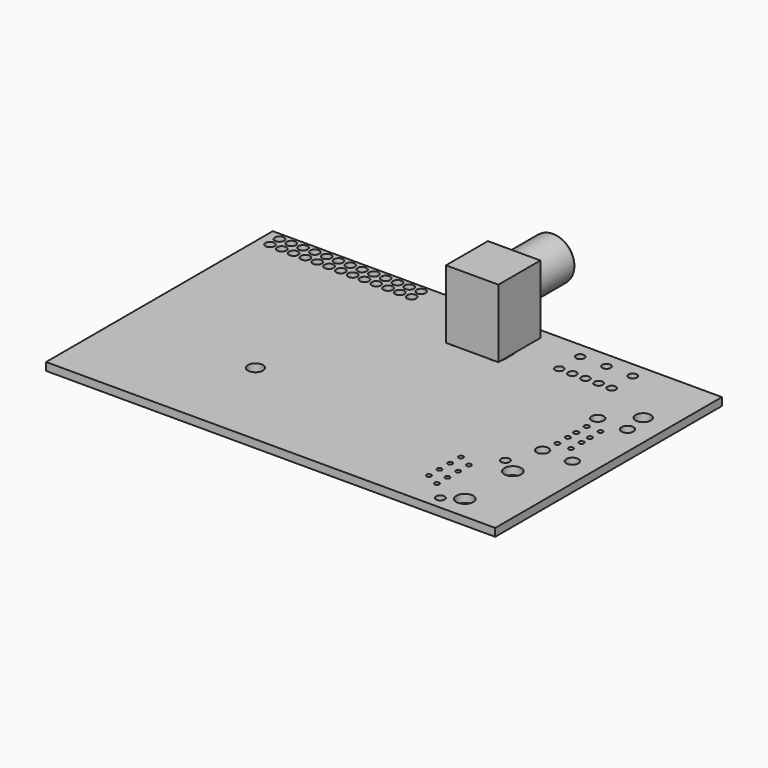
from build123d import *

# Parameters (mm, degrees)
F0_W     = 85.6
F0_H     = 54
F0_R     = 1.45
F0_R_2   = 0.825
F0_R_3   = 0.445
F0_R_4   = 1.625
F0_R_5   = 1.15
F0_R_6   = 0.875
F0_R_7   = 0.46
F0_R_8   = 0.8
F1_DEPTH = 1.5
F3_DEPTH = 13
F4_R     = 4.15
F4_R_2   = 1.7
F5_DEPTH = 9.5
F6_R     = 0.5


with BuildPart() as f1:
    # F0 (on Top) → F1 (new body)
    with BuildSketch(Plane.XY):
        Rectangle(F0_W, F0_H)
        with Locations((-17.3, -9)):
            Circle(F0_R, mode=Mode.SUBTRACT)
        with Locations((30.375, -24.555)):
            Circle(F0_R_2, mode=Mode.SUBTRACT)
        with Locations((27.075, -21.255)):
            Circle(F0_R_3, mode=Mode.SUBTRACT)
        with Locations((33.425, -22.525)):
            Circle(F0_R_4, mode=Mode.SUBTRACT)
        with Locations((24.535, -19.985)):
            Circle(F0_R_3, mode=Mode.SUBTRACT)
        with Locations((24.535, -17.445)):
            Circle(F0_R_3, mode=Mode.SUBTRACT)
        with Locations((27.075, -18.715)):
            Circle(F0_R_3, mode=Mode.SUBTRACT)
        with Locations((24.535, -14.905)):
            Circle(F0_R_3, mode=Mode.SUBTRACT)
        with Locations((27.075, -16.175)):
            Circle(F0_R_3, mode=Mode.SUBTRACT)
        with Locations((27.075, -13.635)):
            Circle(F0_R_3, mode=Mode.SUBTRACT)
        with Locations((24.535, -12.365)):
            Circle(F0_R_3, mode=Mode.SUBTRACT)
        with Locations((30.375, -9.065)):
            Circle(F0_R_2, mode=Mode.SUBTRACT)
        with Locations((33.425, -11.095)):
            Circle(F0_R_4, mode=Mode.SUBTRACT)
        with Locations((32.65, -3.04)):
            Circle(F0_R_5, mode=Mode.SUBTRACT)
        with Locations((38.33, -3.04)):
            Circle(F0_R_5, mode=Mode.SUBTRACT)
        with Locations((-40.425, 23.375)):
            Circle(F0_R_6, mode=Mode.SUBTRACT)
        with Locations((-38.175, 23.375)):
            Circle(F0_R_6, mode=Mode.SUBTRACT)
        with Locations((-35.925, 23.375)):
            Circle(F0_R_6, mode=Mode.SUBTRACT)
        with Locations((-33.675, 23.375)):
            Circle(F0_R_6, mode=Mode.SUBTRACT)
        with Locations((-40.425, 25.625)):
            Circle(F0_R_6, mode=Mode.SUBTRACT)
        with Locations((-38.175, 25.625)):
            Circle(F0_R_6, mode=Mode.SUBTRACT)
        with Locations((-35.925, 25.625)):
            Circle(F0_R_6, mode=Mode.SUBTRACT)
        with Locations((-33.675, 25.625)):
            Circle(F0_R_6, mode=Mode.SUBTRACT)
        with Locations((-31.425, 23.375)):
            Circle(F0_R_6, mode=Mode.SUBTRACT)
        with Locations((-29.175, 23.375)):
            Circle(F0_R_6, mode=Mode.SUBTRACT)
        with Locations((-26.925, 23.375)):
            Circle(F0_R_6, mode=Mode.SUBTRACT)
        with Locations((-24.675, 23.375)):
            Circle(F0_R_6, mode=Mode.SUBTRACT)
        with Locations((-22.425, 23.375)):
            Circle(F0_R_6, mode=Mode.SUBTRACT)
        with Locations((-31.425, 25.625)):
            Circle(F0_R_6, mode=Mode.SUBTRACT)
        with Locations((-29.175, 25.625)):
            Circle(F0_R_6, mode=Mode.SUBTRACT)
        with Locations((-26.925, 25.625)):
            Circle(F0_R_6, mode=Mode.SUBTRACT)
        with Locations((-24.675, 25.625)):
            Circle(F0_R_6, mode=Mode.SUBTRACT)
        with Locations((-22.425, 25.625)):
            Circle(F0_R_6, mode=Mode.SUBTRACT)
        with Locations((-20.175, 23.375)):
            Circle(F0_R_6, mode=Mode.SUBTRACT)
        with Locations((-17.925, 23.375)):
            Circle(F0_R_6, mode=Mode.SUBTRACT)
        with Locations((-15.675, 23.375)):
            Circle(F0_R_6, mode=Mode.SUBTRACT)
        with Locations((-13.425, 23.375)):
            Circle(F0_R_6, mode=Mode.SUBTRACT)
        with Locations((-20.175, 25.625)):
            Circle(F0_R_6, mode=Mode.SUBTRACT)
        with Locations((-17.925, 25.625)):
            Circle(F0_R_6, mode=Mode.SUBTRACT)
        with Locations((-15.675, 25.625)):
            Circle(F0_R_6, mode=Mode.SUBTRACT)
        with Locations((-13.425, 25.625)):
            Circle(F0_R_6, mode=Mode.SUBTRACT)
        with Locations((33.01, 0.03)):
            Circle(F0_R_7, mode=Mode.SUBTRACT)
        with Locations((35.63, 0.03)):
            Circle(F0_R_7, mode=Mode.SUBTRACT)
        with Locations((33.01, 2.53)):
            Circle(F0_R_7, mode=Mode.SUBTRACT)
        with Locations((35.63, 2.53)):
            Circle(F0_R_7, mode=Mode.SUBTRACT)
        with Locations((33.01, 4.53)):
            Circle(F0_R_7, mode=Mode.SUBTRACT)
        with Locations((35.63, 4.53)):
            Circle(F0_R_7, mode=Mode.SUBTRACT)
        with Locations((33.01, 7.03)):
            Circle(F0_R_7, mode=Mode.SUBTRACT)
        with Locations((35.63, 7.03)):
            Circle(F0_R_7, mode=Mode.SUBTRACT)
        with Locations((32.65, 10.1)):
            Circle(F0_R_5, mode=Mode.SUBTRACT)
        with Locations((38.33, 10.1)):
            Circle(F0_R_5, mode=Mode.SUBTRACT)
        with BuildLine():
            Line((2.425, 18.3), (2.425, 16.3))
            ThreePointArc((2.425, 16.3), (1.05, 14.925), (-0.325, 16.3))
            Line((-0.325, 16.3), (-0.325, 18.3))
            ThreePointArc((-0.325, 18.3), (1.05, 19.675), (2.425, 18.3))
        make_face(mode=Mode.SUBTRACT)
        with BuildLine():
            ThreePointArc((7.175, 18.3), (8.55, 19.675), (9.925, 18.3))
            Line((9.925, 18.3), (9.925, 16.3))
            ThreePointArc((9.925, 16.3), (8.55, 14.925), (7.175, 16.3))
            Line((7.175, 16.3), (7.175, 18.3))
        make_face(mode=Mode.SUBTRACT)
        with Locations((18.2, 19)):
            Circle(F0_R_8, mode=Mode.SUBTRACT)
        with Locations((20.7, 19)):
            Circle(F0_R_8, mode=Mode.SUBTRACT)
        with BuildLine():
            Line((3.8, 22.5), (5.8, 22.5))
            ThreePointArc((5.8, 22.5), (7.3, 21), (5.8, 19.5))
            Line((5.8, 19.5), (3.8, 19.5))
            ThreePointArc((3.8, 19.5), (2.3, 21), (3.8, 22.5))
        make_face(mode=Mode.SUBTRACT)
        with Locations((18.2, 24)):
            Circle(F0_R_8, mode=Mode.SUBTRACT)
        with Locations((23.2, 19)):
            Circle(F0_R_8, mode=Mode.SUBTRACT)
        with Locations((25.7, 19)):
            Circle(F0_R_8, mode=Mode.SUBTRACT)
        with Locations((28.2, 19)):
            Circle(F0_R_8, mode=Mode.SUBTRACT)
        with Locations((37.8, 14.5)):
            Circle(F0_R, mode=Mode.SUBTRACT)
        with Locations((23.2, 24)):
            Circle(F0_R_8, mode=Mode.SUBTRACT)
        with Locations((28.2, 24)):
            Circle(F0_R_8, mode=Mode.SUBTRACT)
    extrude(amount=F1_DEPTH)

    # F2 (on face) → F3 (join)
    with BuildSketch(Plane.XY.offset(1.5)):
        with BuildLine():
            ThreePointArc((2.425, 16.3), (2.1694873279, 15.5016434865), (1.4979118217, 15))
            Line((1.4979118217, 15), (8.1020881783, 15))
            ThreePointArc((8.1020881783, 15), (7.4305126721, 15.5016434865), (7.175, 16.3))
            Line((7.175, 16.3), (7.175, 18.3))
            ThreePointArc((7.175, 18.3), (8.256849015, 19.6433865788), (9.8, 18.8728219619))
            Line((9.8, 18.8728219619), (9.8, 25))
            Line((9.8, 25), (-0.2, 25))
            Line((-0.2, 25), (-0.2, 18.8728219619))
            ThreePointArc((-0.2, 18.8728219619), (1.343150985, 19.6433865788), (2.425, 18.3))
            Line((2.425, 18.3), (2.425, 16.3))
        make_face()
        with BuildLine():
            ThreePointArc((3.8, 19.5), (2.3, 21), (3.8, 22.5))
            Line((3.8, 22.5), (5.8, 22.5))
            ThreePointArc((5.8, 22.5), (7.3, 21), (5.8, 19.5))
            Line((5.8, 19.5), (3.8, 19.5))
        make_face(mode=Mode.SUBTRACT)
        with BuildLine():
            Line((5.8, 22.5), (3.8, 22.5))
            ThreePointArc((3.8, 22.5), (2.3, 21), (3.8, 19.5))
            Line((3.8, 19.5), (5.8, 19.5))
            ThreePointArc((5.8, 19.5), (7.3, 21), (5.8, 22.5))
        make_face()
        with BuildLine():
            ThreePointArc((7.175, 16.3), (7.4305126721, 15.5016434865), (8.1020881783, 15))
            Line((8.1020881783, 15), (8.9979118217, 15))
            ThreePointArc((8.9979118217, 15), (9.4735383659, 15.2813234632), (9.8, 15.7271780381))
            Line((9.8, 15.7271780381), (9.8, 18.8728219619))
            ThreePointArc((9.8, 18.8728219619), (8.256849015, 19.6433865788), (7.175, 18.3))
            Line((7.175, 18.3), (7.175, 16.3))
        make_face()
        with BuildLine():
            ThreePointArc((-0.2, 15.7271780381), (0.1264616341, 15.2813234632), (0.6020881783, 15))
            Line((0.6020881783, 15), (1.4979118217, 15))
            ThreePointArc((1.4979118217, 15), (2.1694873279, 15.5016434865), (2.425, 16.3))
            Line((2.425, 16.3), (2.425, 18.3))
            ThreePointArc((2.425, 18.3), (1.343150985, 19.6433865788), (-0.2, 18.8728219619))
            Line((-0.2, 18.8728219619), (-0.2, 15.7271780381))
        make_face()
        with BuildLine():
            Line((-0.2, 15.7271780381), (-0.2, 15))
            Line((-0.2, 15), (0.6020881783, 15))
            ThreePointArc((0.6020881783, 15), (0.1264616341, 15.2813234632), (-0.2, 15.7271780381))
        make_face()
        with BuildLine():
            ThreePointArc((9.8, 15.7271780381), (9.4735383659, 15.2813234632), (8.9979118217, 15))
            Line((8.9979118217, 15), (9.8, 15))
            Line((9.8, 15), (9.8, 15.7271780381))
        make_face()
    extrude(amount=F3_DEPTH)

    # F4 (on face) → F5 (join)
    with BuildSketch(Plane(origin=(0, 25, 0), x_dir=(-1, 0, 0), z_dir=(0, 1, 0))):
        with Locations((-4.8, 9.5)):
            Circle(F4_R)
        with Locations((-4.8, 9.5)):
            Circle(F4_R_2, mode=Mode.SUBTRACT)
    extrude(amount=F5_DEPTH)

    # F6
    f6_edges = [f1.edges().sort_by_distance(p)[0] for p in [
        (8.95, 34.5, 9.5),
    ]]
    fillet(f6_edges, radius=F6_R)


solid = f1.part
